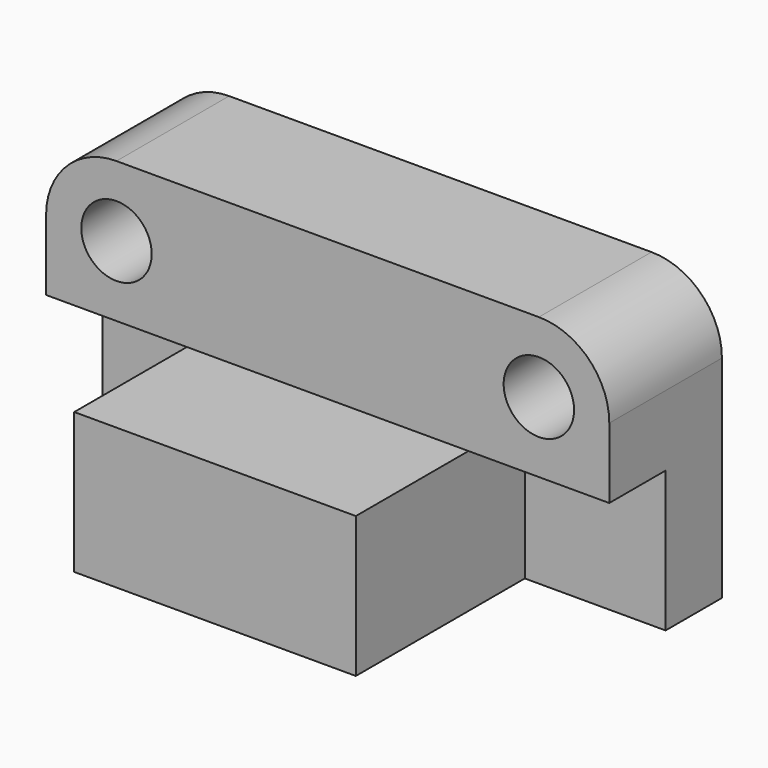
from build123d import *

# Parameters (mm, degrees)
F0_W     = 203.2
F0_H     = 50.8
F1_DEPTH = 101.6
F2_W     = 25.4
F2_H     = 50.8
F3_DEPTH = 203.2
F4_W     = 101.6
F4_H     = 50.8
F5_DEPTH = 76.2
F6_R     = 12.7
F7_DEPTH = 50.8


with BuildPart() as f1:
    # F0 (on Top) → F1 (new body)
    with BuildSketch(Plane.XY):
        with Locations((34.24432, -2.804964)):
            Rectangle(F0_W, F0_H)
    extrude(amount=F1_DEPTH)

    # F2 (on face) → F3 (cut, through all)
    with BuildSketch(Plane.YZ.offset(135.84432)):
        with Locations((-15.504964, 25.4)):
            Rectangle(F2_W, F2_H)
    extrude(amount=-F3_DEPTH, mode=Mode.SUBTRACT)

    # F4 (on face) → F5 (join)
    with BuildSketch(Plane.XZ.offset(2.804964)):
        with Locations((34.24432, 25.4)):
            Rectangle(F4_W, F4_H)
    extrude(amount=F5_DEPTH)

    # F6 (on face) → F7 (cut, through all)
    with BuildSketch(Plane.XZ.offset(28.204964)):
        with Locations((-41.95568, 76.2)):
            Circle(F6_R)
        with Locations((110.44432, 76.2)):
            Circle(F6_R)
        with BuildLine():
            Line((-67.35568, 101.6), (-67.35568, 76.2))
            ThreePointArc((-67.35568, 76.2), (-59.916192, 94.160512), (-41.95568, 101.6))
            Line((-41.95568, 101.6), (-67.35568, 101.6))
        make_face()
        with BuildLine():
            Line((135.84432, 101.6), (110.44432, 101.6))
            ThreePointArc((110.44432, 101.6), (128.404832, 94.160512), (135.84432, 76.2))
            Line((135.84432, 76.2), (135.84432, 101.6))
        make_face()
    extrude(amount=-F7_DEPTH, mode=Mode.SUBTRACT)


solid = f1.part
